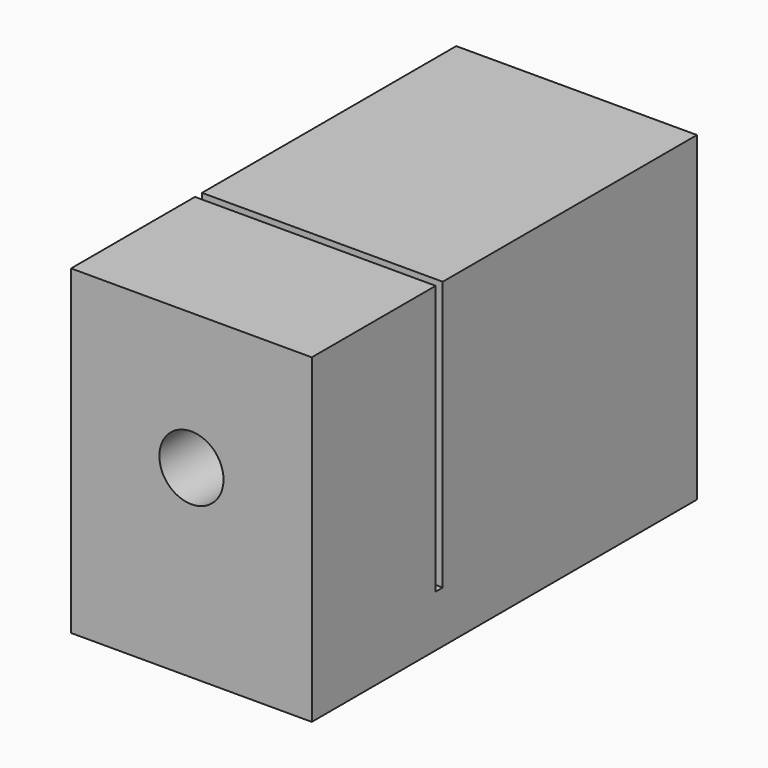
from build123d import *

# Parameters (mm, degrees)
F0_W     = 15
F0_H     = 20
F0_R     = 2
F1_DEPTH = 30
F2_W     = 0.55
F2_H     = 16.774644
F3_DEPTH = 15


with BuildPart() as f1:
    # F0 (on Front) → F1 (new body)
    with BuildSketch(Plane.XZ):
        with Locations((0, -1.499573)):
            Rectangle(F0_W, F0_H)
        Circle(F0_R, mode=Mode.SUBTRACT)
    extrude(amount=F1_DEPTH)

    # F2 (on face) → F3 (cut, through all)
    with BuildSketch(Plane.YZ.offset(7.5)):
        with Locations((-20.075855, 0.113105)):
            Rectangle(F2_W, F2_H)
    extrude(amount=-F3_DEPTH, mode=Mode.SUBTRACT)


solid = f1.part
